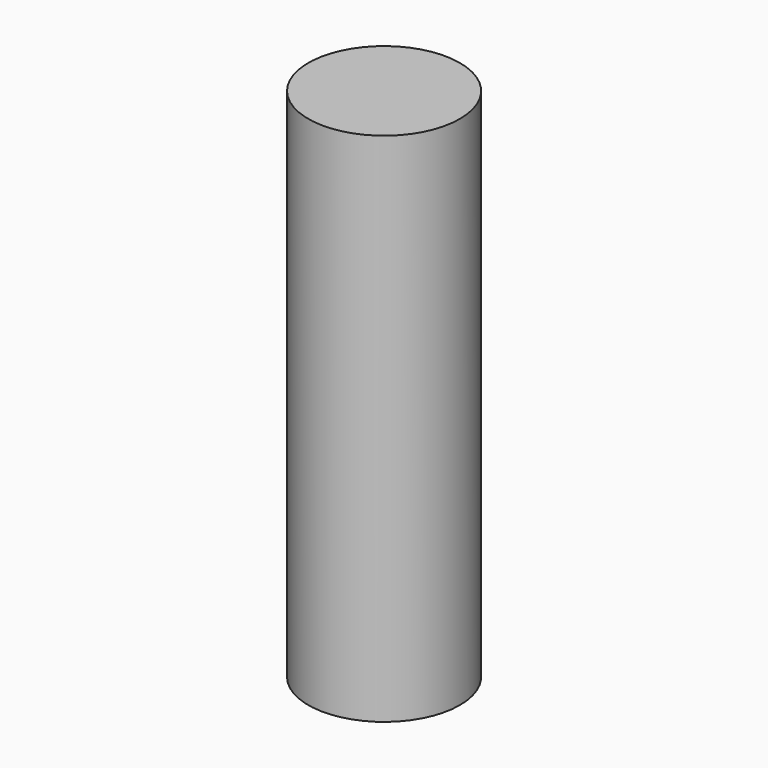
from build123d import *

# Parameters (mm, degrees)
CYLINDER_R     = 2.20345
CYLINDER_DEPTH = 15


with BuildPart() as part:
    # Cylinder → Cylinder (new body)
    with BuildSketch(Plane.XY.offset(-2.5)):
        Circle(CYLINDER_R)
    extrude(amount=CYLINDER_DEPTH)


solid = part.part
